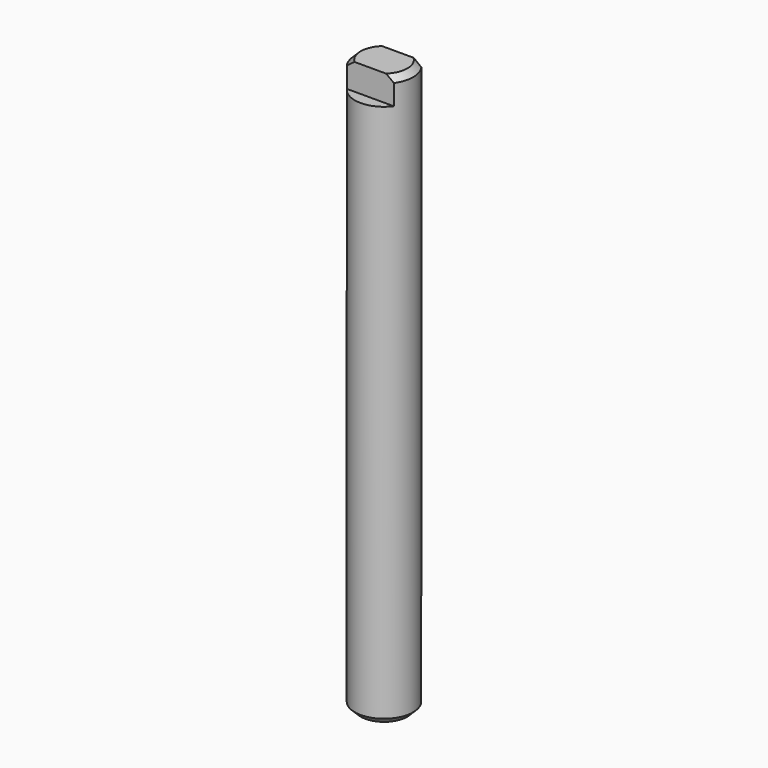
from build123d import *

# Parameters (mm, degrees)
F0_R     = 5
F1_DEPTH = 98
F2_W     = 4.8668145407
F2_H     = 4.5
F2_W_2   = 5.1924452364
F3_DEPTH = 12.5
F4_SIZE  = 1
F5_SIZE  = 1


with BuildPart() as f1:
    # F0 (on Top) → F1 (new body)
    with BuildSketch(Plane.XY):
        with Locations((-1.1064895812, 0)):
            Circle(F0_R)
    extrude(amount=F1_DEPTH)

    # F2 (on Right) → F3 (cut, symmetric)
    with BuildSketch(Plane.YZ):
        with Locations((5.3834072703, 95.75)):
            Rectangle(F2_W, F2_H)
        with Locations((-5.5462226182, 95.75)):
            Rectangle(F2_W_2, F2_H)
    extrude(amount=F3_DEPTH, both=True, mode=Mode.SUBTRACT)

    # F4
    f4_edges = [f1.edges().sort_by_distance(p)[0] for p in [
        (3.646672, -1.551599, 98),
        (-6.10649, 0, 98),
        (3.646672, 1.551599, 98),
    ]]
    chamfer(f4_edges, length=F4_SIZE)

    # F5
    f5_edges = [f1.edges().sort_by_distance(p)[0] for p in [
        (-6.10649, 0, 0),
    ]]
    chamfer(f5_edges, length=F5_SIZE)


solid = f1.part
